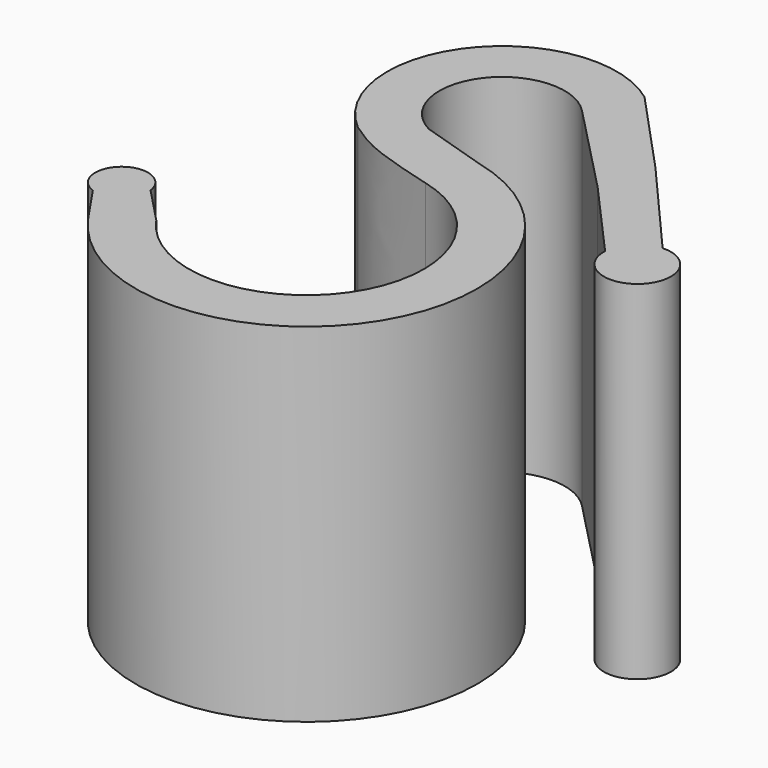
from build123d import *

# Parameters (mm, degrees)
F1_DEPTH = 10


with BuildPart() as f1:
    # F0 (on Top) → F1 (new body)
    with BuildSketch(Plane.XY):
        with BuildLine():
            ThreePointArc((-9.6618913839, 6.0816285435), (-10.2767491333, 8.754632337), (-7.5396319115, 8.9312354108))
            Line((-7.5396319115, 8.9312354108), (-4.9405973193, 6.2455355452))
            Line((-4.9405973193, 6.2455355452), (-2.8629372828, 3.9173089899))
            ThreePointArc((-2.8629372828, 3.9173089899), (-1.2204668488, 3.1932707933), (-1.9445042126, 4.8357415944))
            Line((-1.9445042126, 4.8357415944), (-4.5220414177, 7.7984281816))
            Line((-4.5220414177, 7.7984281816), (-6.8499312622, 10.3170876293))
            ThreePointArc((-6.8499312622, 10.3170876293), (-11.4164551285, 9.7328706229), (-10.9552195609, 5.1522908034))
            add(Edge.make_bspline(
                [(-10.9552195609, 5.1522908034), (-10.6926542112, 4.9714270901), (-10.058152243, 4.5343611094), (-8.8142262778, 4.1882031461), (-8.0850534141, 3.9852899499)],
                knots=[0, 0, 0, 0, 0.4138132943, 1, 1, 1, 1], degree=3))
            ThreePointArc((-8.0850534141, 3.9852899499), (-6.0877209286, -1.2198178636), (-11.662869985, -1.2057677011))
            Line((-11.662869985, -1.2057677011), (-12.6730389893, -0.1474826422))
            ThreePointArc((-12.6730389893, -0.1474826422), (-13.8998387132, 0.3415873294), (-13.6815843859, -0.9609456062))
            Line((-13.6815843859, -0.9609456062), (-12.9269978385, -2.067672831))
            ThreePointArc((-12.9269978385, -2.067672831), (-4.8279533498, -2.0880835662), (-7.7294873707, 5.4734003194))
            Line((-7.7294873707, 5.4734003194), (-9.6618913839, 6.0816285435))
        make_face()
    extrude(amount=F1_DEPTH)


solid = f1.part
